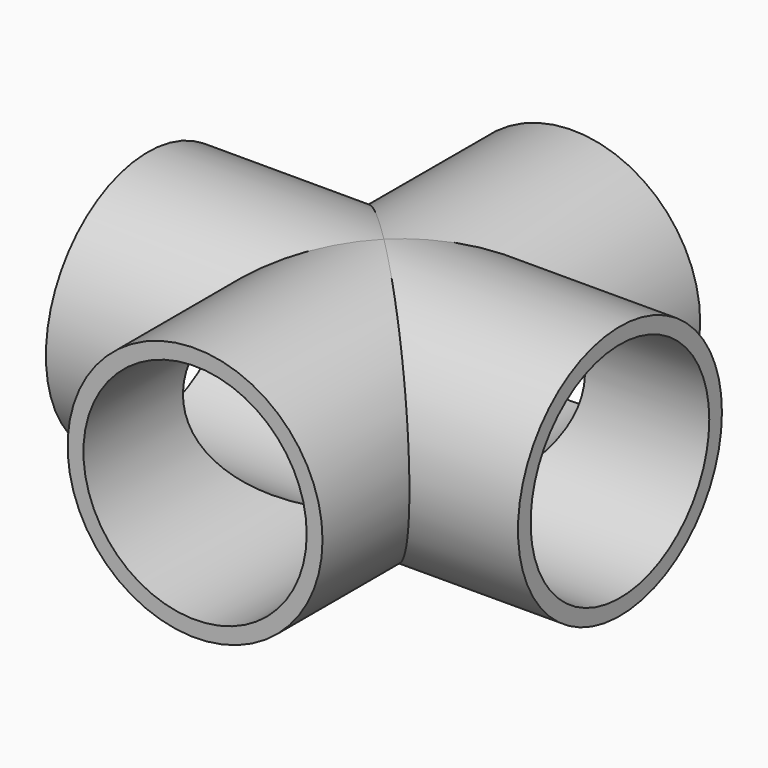
from build123d import *

# Parameters (mm, degrees)
F0_R     = 5.1562
F0_R_2   = 6.858
F1_DEPTH = 12.7
F2_R     = 5.1562
F2_R_2   = 6.858
F3_DEPTH = 12.7
F4_R     = 6.0071
F5_DEPTH = 12.7
F6_R     = 6.0071
F7_DEPTH = 12.7


with BuildPart() as f1:
    # F0 (on Front) → F1 (new body, symmetric)
    with BuildSketch(Plane.XZ):
        Circle(F0_R)
        Circle(F0_R_2)
        Circle(F0_R, mode=Mode.SUBTRACT)
    extrude(amount=F1_DEPTH, both=True)

    # F2 (on Right) → F3 (join, symmetric)
    with BuildSketch(Plane.YZ):
        Circle(F2_R)
        Circle(F2_R_2)
        Circle(F2_R, mode=Mode.SUBTRACT)
    extrude(amount=F3_DEPTH, both=True)

    # F4 (on Right) → F5 (cut, symmetric)
    with BuildSketch(Plane.YZ):
        Circle(F4_R)
    extrude(amount=F5_DEPTH, both=True, mode=Mode.SUBTRACT)

    # F6 (on Front) → F7 (cut, symmetric)
    with BuildSketch(Plane.XZ):
        Circle(F6_R)
    extrude(amount=F7_DEPTH, both=True, mode=Mode.SUBTRACT)


solid = f1.part
